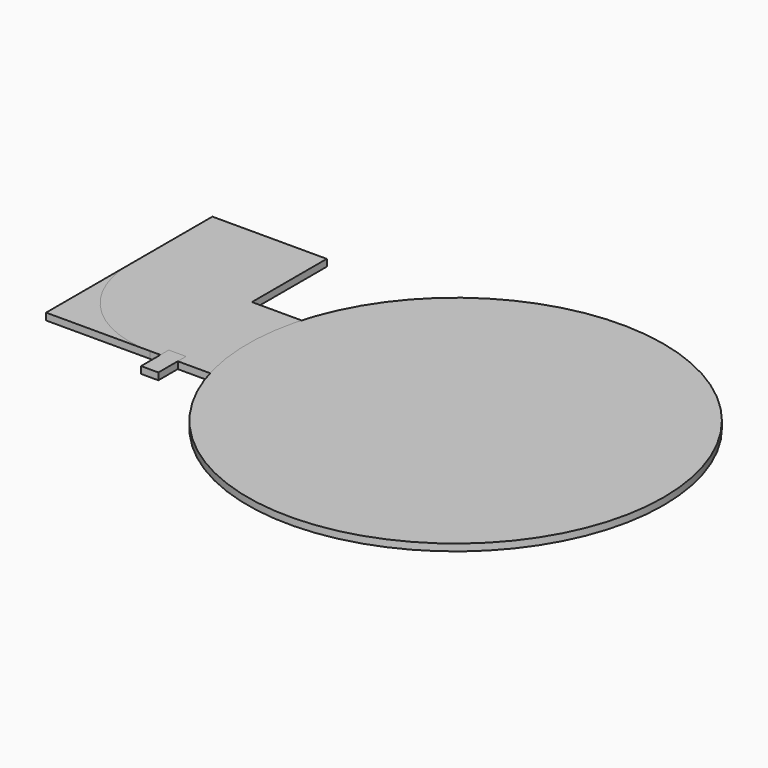
from build123d import *

# Parameters (mm, degrees)
BOX_W            = 80
BOX_H            = 33
BOX_DEPTH        = 2
EXTRUDE_DEPTH    = 2
EXTRUDE001_DEPTH = 2
BOX001_W         = 60
BOX001_H         = 33
BOX001_DEPTH     = 2
BOX002_W         = 80
BOX002_H         = 33
BOX002_DEPTH     = 2
FILLET_R         = 30
CYLINDER_R       = 60
CYLINDER_DEPTH   = 2
BOX003_W         = 5
BOX003_H         = 10
BOX003_DEPTH     = 2


with BuildPart() as obj1:
    # Box → Box (new body)
    with BuildSketch(Plane(origin=(-105, -16.5, 0), x_dir=(1, 0, 0), z_dir=(0, 0, 1))):
        with Locations((40, 16.5)):
            Rectangle(BOX_W, BOX_H)
    extrude(amount=BOX_DEPTH)


with BuildPart() as extrude_body:
    # RegularPolygon002 → Extrude (new body)
    with BuildSketch(Plane(origin=(12.5, 0, 0), x_dir=(0, 1, 0), z_dir=(0, 0, 1))):
        Polygon((0, -37.5), (43.30127, 37.5), (-43.30127, 37.5), align=None)
    extrude(amount=EXTRUDE_DEPTH)


with BuildPart() as obj2:
    # RegularPolygon002 → Extrude001 (new body)
    with BuildSketch(Plane(origin=(12.5, 0, 0), x_dir=(0, 1, 0), z_dir=(0, 0, 1))):
        Polygon((0, -37.5), (43.30127, 37.5), (-43.30127, 37.5), align=None)
    extrude(amount=EXTRUDE001_DEPTH)


with BuildPart() as cubo001:
    # Box001 → Box001 (new body)
    with BuildSketch(Plane(origin=(-72, -16.5, 0), x_dir=(0, 1, 0), z_dir=(0, 0, 1))):
        with Locations((30, 16.5)):
            Rectangle(BOX001_W, BOX001_H)
    extrude(amount=BOX001_DEPTH)


with BuildPart() as obj3:
    # Box002 → Box002 (new body)
    with BuildSketch(Plane(origin=(-105, -16.5, 0), x_dir=(1, 0, 0), z_dir=(0, 0, 1))):
        with Locations((40, 16.5)):
            Rectangle(BOX002_W, BOX002_H)
    extrude(amount=BOX002_DEPTH)

    # Fusion: union Cubo001
    add(cubo001.part)

    # Fillet
    fillet_edges = [obj3.edges().sort_by_distance(p)[0] for p in [
        (-105, -16.5, 1),
    ]]
    fillet(fillet_edges, radius=FILLET_R)


with BuildPart() as circulo:
    # Cylinder → Cylinder (new body)
    with BuildSketch(Plane.XY):
        Circle(CYLINDER_R)
    extrude(amount=CYLINDER_DEPTH)


with BuildPart() as cubo:
    # Box003 → Box003 (new body)
    with BuildSketch(Plane(origin=(-72, -23.5, 0), x_dir=(1, 0, 0), z_dir=(0, 0, 1))):
        with Locations((2.5, 5)):
            Rectangle(BOX003_W, BOX003_H)
    extrude(amount=BOX003_DEPTH)


solid = Compound([obj1.part, extrude_body.part, obj2.part, obj3.part, circulo.part, cubo.part])
